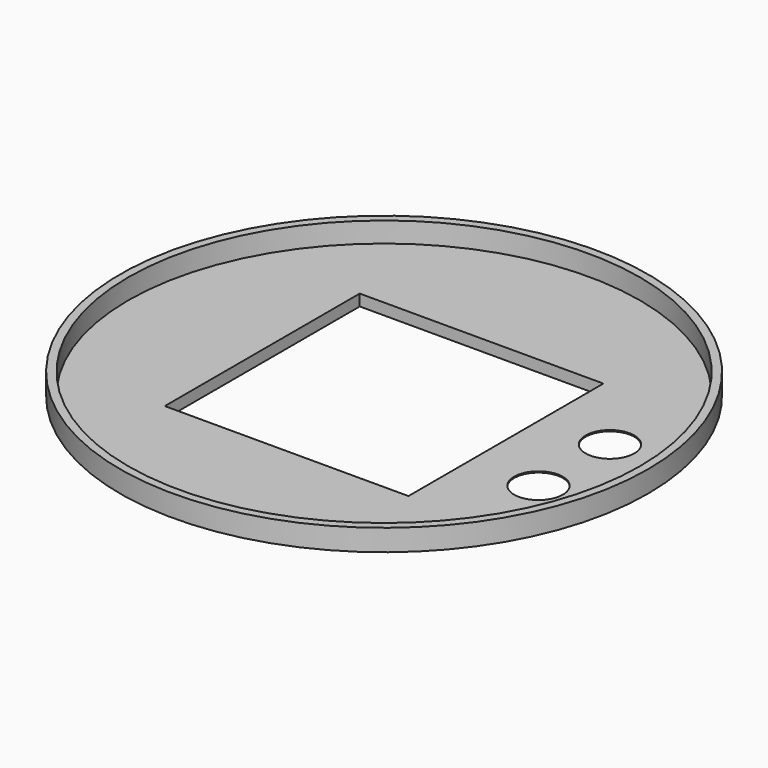
from build123d import *

# Parameters (mm, degrees)
F0_R      = 650
F1_DEPTH  = 3
F2_R      = 650
F2_R_2    = 630
F3_DEPTH  = 50
F4_W      = 600
F4_H      = 600
F4_R      = 60
F5_DEPTH  = 25
F6_W      = 604
F6_H      = 604
F6_W_2    = 600
F6_H_2    = 600
F7_DEPTH  = 25
F8_W      = 10
F8_H      = 30
F9_DEPTH  = 25
F10_R     = 6
F11_DEPTH = 500


with BuildPart() as f1:
    # F0 (on Top) → F1 (new body)
    with BuildSketch(Plane.XY):
        Circle(F0_R)
    extrude(amount=F1_DEPTH)

    # F2 (on face) → F3 (join)
    with BuildSketch(Plane.XY.offset(3)):
        Circle(F2_R)
        Circle(F2_R_2, mode=Mode.SUBTRACT)
    extrude(amount=F3_DEPTH)

    # F4 (on face) → F5 (cut)
    with BuildSketch(Plane(origin=(0, 0, 0), x_dir=(1, 0, 0), z_dir=(0, 0, -1))):
        Rectangle(F4_W, F4_H)
        with Locations((468.2388901711, 110)):
            Circle(F4_R)
        with Locations((468.2388901711, -110)):
            Circle(F4_R)
    extrude(amount=-F5_DEPTH, mode=Mode.SUBTRACT)

    # F6 (on face) → F7 (join)
    with BuildSketch(Plane(origin=(0, 0, 0), x_dir=(1, 0, 0), z_dir=(0, 0, -1))):
        Rectangle(F6_W, F6_H)
        Rectangle(F6_W_2, F6_H_2, mode=Mode.SUBTRACT)
    extrude(amount=F7_DEPTH)

    # F8 (on face) → F9 (join)
    with BuildSketch(Plane(origin=(0, 0, 0), x_dir=(1, 0, 0), z_dir=(0, 0, -1))):
        with Locations((-235, -342)):
            Rectangle(F8_W, F8_H)
        with Locations((-205, -342)):
            Rectangle(F8_W, F8_H)
        with Locations((205, -342)):
            Rectangle(F8_W, F8_H)
        with Locations((235, -342)):
            Rectangle(F8_W, F8_H)
    extrude(amount=F9_DEPTH)

    # F10 (on Right) → F11 (cut, symmetric)
    with BuildSketch(Plane.YZ):
        with Locations((342, -13)):
            Circle(F10_R)
    extrude(amount=F11_DEPTH, both=True, mode=Mode.SUBTRACT)


solid = f1.part
